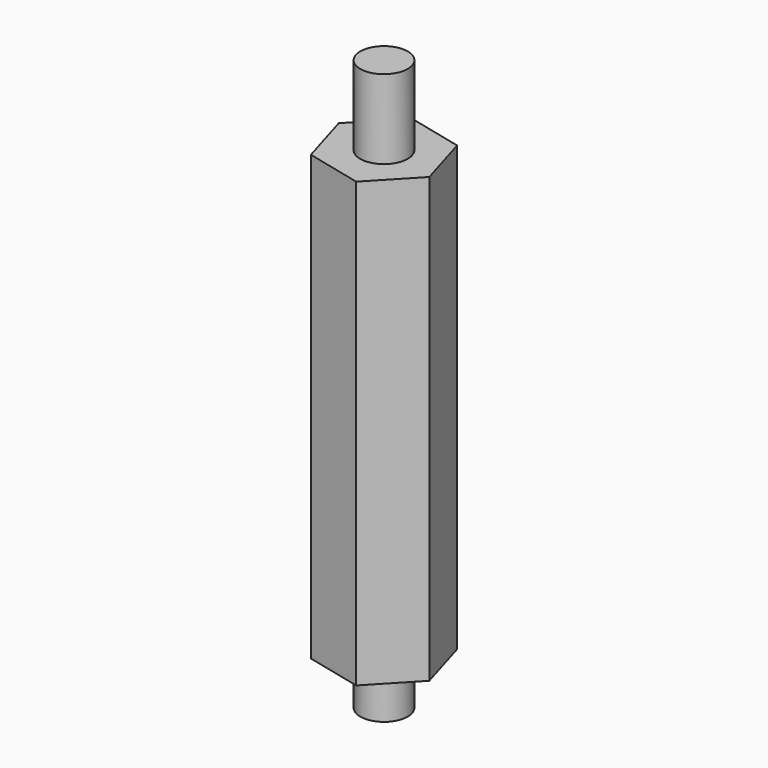
from build123d import *

# Parameters (mm, degrees)
F1_DEPTH = 28
F2_R     = 1.5
F3_DEPTH = 5
F4_R     = 1.5
F5_DEPTH = 3


with BuildPart() as f1:
    # F0 (on Top) → F1 (new body)
    with BuildSketch(Plane.XY):
        Polygon((3.5371081789, -0.8478594996), (2.5028219549, 2.639295789), (-1.0342862239, 3.4871552886), (-3.5371081789, 0.8478594996), (-2.5028219549, -2.639295789), (1.0342862239, -3.4871552886), align=None)
    extrude(amount=F1_DEPTH)

    # F2 (on face) → F3 (join)
    with BuildSketch(Plane.XY.offset(28)):
        Circle(F2_R)
    extrude(amount=F3_DEPTH)

    # F4 (on face) → F5 (join)
    with BuildSketch(Plane(origin=(0, 0, 0), x_dir=(1, 0, 0), z_dir=(0, 0, -1))):
        Circle(F4_R)
    extrude(amount=F5_DEPTH)


solid = f1.part
